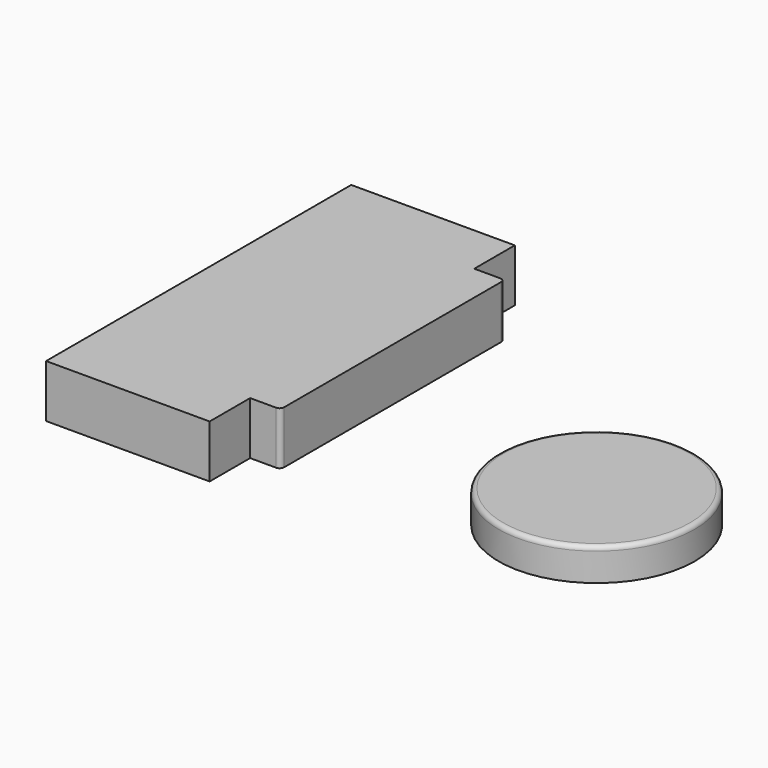
from build123d import *

# Parameters (mm, degrees)
F1_DEPTH = 4.74
F0_R     = 8.79
F2_DEPTH = 2.92
F3_R     = 0.4
F3_2_R   = 0.4


with BuildPart() as f1:
    # F0 (on Top) → F1 (new body)
    with BuildSketch(Plane.XY):
        Polygon((-10.57955, 15.6472), (-25.24955, 15.6472), (-25.24955, -18.5628), (-10.57955, -18.5628), (-10.57955, -14.0228), (-7.84955, -14.0228), (-7.84955, 11.1072), (-10.57955, 11.1072), align=None)
    extrude(amount=F1_DEPTH)

    # F3
    f3_edges = [f1.edges().sort_by_distance(p)[0] for p in [
        (-7.84955, -14.0228, 2.37),
        (-7.84955, 11.1072, 2.37),
    ]]
    fillet(f3_edges, radius=F3_R)


with BuildPart() as f2:
    # F0 (on Top) → F2 (new body)
    with BuildSketch(Plane.XY):
        with Locations((14.723821, -6.803122)):
            Circle(F0_R)
    extrude(amount=F2_DEPTH)

    # F3#2
    f3_2_edges = [f2.edges().sort_by_distance(p)[0] for p in [
        (5.933821, -6.803122, 2.92),
    ]]
    fillet(f3_2_edges, radius=F3_2_R)


solid = Compound([f1.part, f2.part])
